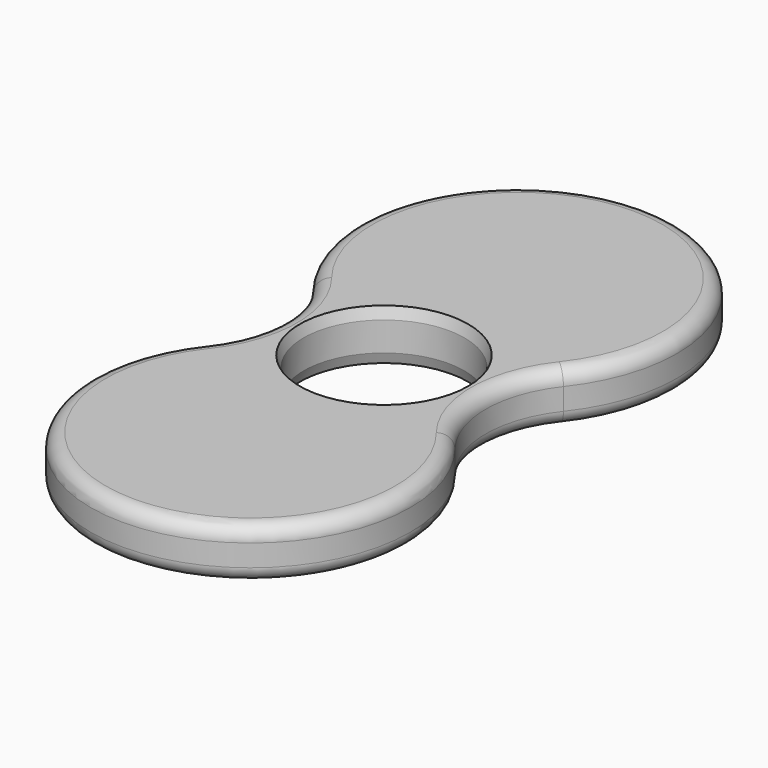
from build123d import *

# Parameters (mm, degrees)
F0_R     = 11.1
F1_DEPTH = 7
F2_SIZE2 = 0.5
F2_SIZE  = 1.5
F3_R     = 2


with BuildPart() as f1:
    # F0 (on Top) → F1 (new body)
    with BuildSketch(Plane.XY):
        with BuildLine():
            ThreePointArc((-31.251265, 9.347386), (-28, 0), (-31.251265, -9.347386))
            ThreePointArc((-31.251265, -9.347386), (-14, -45), (3.251265, -9.347386))
            ThreePointArc((3.251265, -9.347386), (0, 0), (3.251265, 9.347386))
            ThreePointArc((3.251265, 9.347386), (-14, 45), (-31.251265, 9.347386))
        make_face()
        with Locations((-14, 0)):
            Circle(F0_R, mode=Mode.SUBTRACT)
    extrude(amount=F1_DEPTH)

    # F2
    f2_edges = [f1.edges().sort_by_distance(p)[0] for p in [
        (-25.1, 0, 7),
        (-25.1, 0, 0),
    ]]
    chamfer(f2_edges, length=F2_SIZE, length2=F2_SIZE2)

    # F3
    f3_edges = [f1.edges().sort_by_distance(p)[0] for p in [
        (-14, -45, 7),
        (-14, -45, 0),
    ]]
    fillet(f3_edges, radius=F3_R)


solid = f1.part
